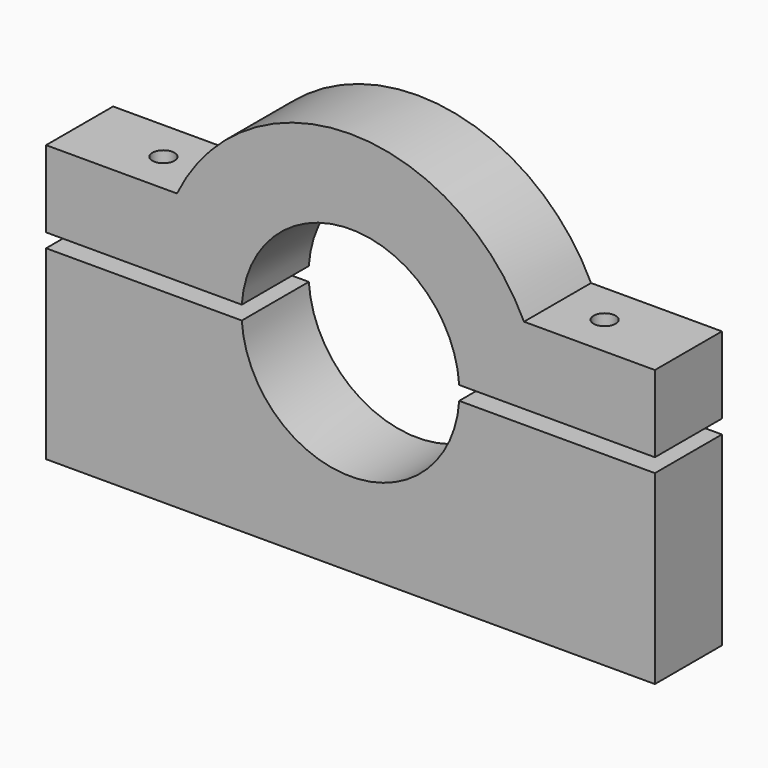
from build123d import *

# Parameters (mm, degrees)
F0_R     = 24.765
F1_DEPTH = 19.05
F2_W     = 138.43
F2_H     = 3.175
F3_DEPTH = 25.4
F4_R     = 2.5
F5_DEPTH = 127


with BuildPart() as f1:
    # F0 (on Front) → F1 (new body)
    with BuildSketch(Plane.XZ):
        with BuildLine():
            Line((69.215, 19.05), (39.45696, 19.05))
            ThreePointArc((39.45696, 19.05), (0, 43.815), (-39.45696, 19.05))
            Line((-39.45696, 19.05), (-69.215, 19.05))
            Line((-69.215, 19.05), (-69.215, -43.815))
            Line((-69.215, -43.815), (69.215, -43.815))
            Line((69.215, -43.815), (69.215, 19.05))
        make_face()
        Circle(F0_R, mode=Mode.SUBTRACT)
    extrude(amount=-F1_DEPTH)

    # F2 (on face) → F3 (cut)
    with BuildSketch(Plane.XZ):
        Rectangle(F2_W, F2_H)
    extrude(amount=-F3_DEPTH, mode=Mode.SUBTRACT)

    # F4 (on face) → F5 (cut)
    with BuildSketch(Plane.XY.offset(19.05)):
        with Locations((-50.165, 9.525)):
            Circle(F4_R)
        with Locations((50.165, 9.525)):
            Circle(F4_R)
    extrude(amount=-F5_DEPTH, mode=Mode.SUBTRACT)


solid = f1.part
